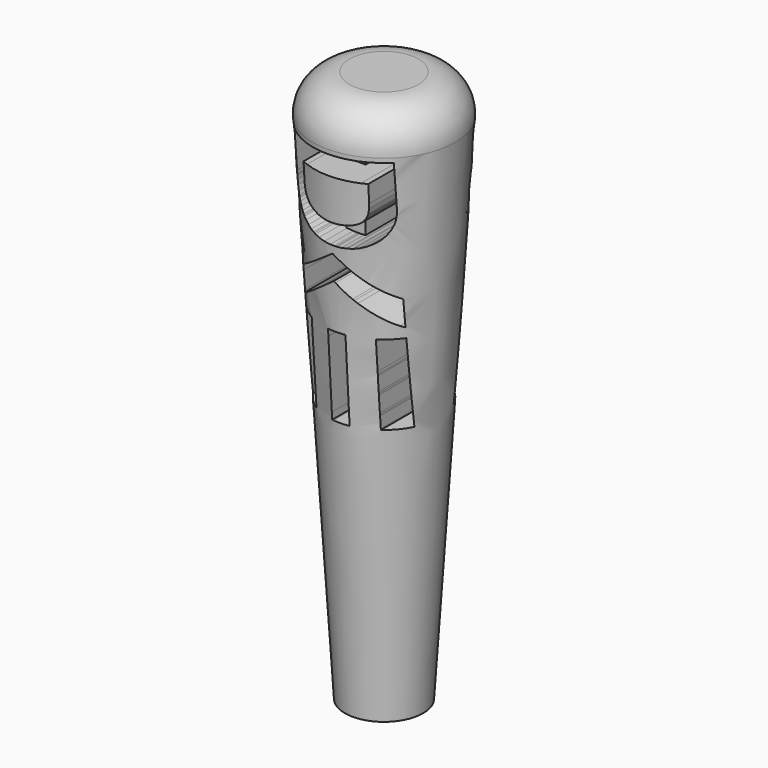
from build123d import *

# Parameters (mm, degrees)
F2_R           = 12.7
F4_DEPTH       = 24.5824695886
F4_DEPTH_BACK  = 24.5824695886
F6_DEPTH       = 12.7
F6_DEPTH_BACK  = 12.7
F8_D           = 6.7564
F8_DEPTH       = 25.4
F8_TIP         = 2.0298273432
F9_W           = 83.6944122157
F9_H           = 12.7
F10_DEPTH      = 24.5824695886
F10_DEPTH_BACK = 24.5824695886


with BuildPart() as f1:
    # F0 (on Front) → F1 (revolve)
    with BuildSketch(Plane.XZ):
        Polygon((0, 203.2), (0, 0), (12.7, 0), (25.4, 203.2), align=None)
    revolve(axis=Axis((0, 0, 101.6), (0, 0, -1)))

    # F2
    f2_edges = [f1.edges().sort_by_distance(p)[0] for p in [
        (-25.4, 0, 203.2),
    ]]
    fillet(f2_edges, radius=F2_R)

    # F3 (on Front) → F4 (cut, two sides)
    with BuildSketch(Plane.XZ) as f4_sk:
        Polygon((17.2665499333, 186.9612298093), (17.266083829, 188.1952409085), (14.4722547342, 188.1957070128), (-13.4677452631, 188.196095433), (-16.2621181463, 188.196095433), (-16.2621181463, 186.9975082596), (-16.2624288825, 175.0106266331), (-16.2628949868, 173.8115733554), (-16.2709741277, 173.4174821809), (-16.2124003557, 172.2323343478), (-15.9897578747, 170.6661462602), (-15.5868884029, 169.1374795678), (-15.1662292841, 168.0265976843), (-14.9950913268, 167.6713485338), (-14.8598433996, 167.3944049034), (-14.3916416435, 166.5935600547), (-13.6743071462, 165.5880177401), (-12.8532644451, 164.6645097799), (-12.1776462814, 164.0285881647), (-11.9386901504, 163.8334458366), (-11.6457436062, 163.5923922363), (-10.7143895572, 162.9332430908), (-9.404015039, 162.1632388091), (-8.0275313962, 161.5154315345), (-6.96419215, 161.1010648236), (-6.6042819566, 160.9810429697), (-6.1102890967, 160.8187609939), (-4.5967707935, 160.4289424421), (-2.5480870851, 160.064759626), (-0.4744667974, 159.8721031875), (1.0869825633, 159.8249489705), (1.606688843, 159.8328727434), (1.887827412, 159.8282893845), (3.2866063765, 159.9083039538), (4.680413562, 160.0613415279), (4.9586001372, 160.0929589354), (5.0918282791, 160.1169633061), (6.4206916007, 160.358871431), (6.5525991138, 160.3876145287), (7.038901253, 160.4844865363), (8.4724049869, 160.9017275569), (10.3094773491, 161.6628758572), (12.0265278575, 162.6630579726), (13.220453988, 163.5599203043), (13.5859574329, 163.894194762), (13.9374777492, 164.2174380848), (14.8700747429, 165.3182987261), (15.8791128397, 166.9459348955), (16.6006422756, 168.7224137004), (16.9563575304, 170.1195613), (17.0233211796, 170.5920356786), (17.038547253, 170.6703411988), (17.1414009323, 171.4593780722), (17.1561609014, 171.5373728562), (17.1678911926, 171.6907211666), (17.2611120499, 173.2282438405), (17.2674044578, 173.3820582551), (17.2674044578, 174.6166131426), align=None)
        Polygon((11.4583467319, 176.322244096), (11.4583467319, 175.860723168), (11.4583467319, 175.3305295419), (11.3871104601, 173.7387057185), (11.105661155, 171.9946988456), (11.0006323223, 171.6549088205), (10.92861921, 171.4041447143), (10.619669752, 170.6775658153), (10.0625197612, 169.7874619956), (9.3422332701, 169.0284111647), (8.7028158727, 168.5626176141), (8.4706182538, 168.443838705), (8.0996769256, 168.2457443831), (6.9170926661, 167.7787855719), (5.2848731379, 167.3509795207), (3.6086067546, 167.1018467794), (2.3454641375, 166.9952642658), (1.923639758, 166.9733573643), (1.6914421391, 166.9763093582), (0.527346683, 166.9661327479), (-0.6346513039, 167.0032657227), (-0.8664605025, 167.0293675628), (-1.2917806642, 167.060518866), (-2.5633131585, 167.2269957804), (-4.2360837596, 167.59374217), (-5.8456195458, 168.1627001361), (-6.9958095575, 168.7367852492), (-7.3531561773, 168.9681283436), (-7.6036095474, 169.1299442151), (-8.2989594592, 169.7036409081), (-9.1013579888, 170.5933563074), (-9.7294335152, 171.6115611219), (-10.0759043684, 172.4448002185), (-10.1528892598, 172.7326972996), (-10.2187653323, 172.9610884001), (-10.3969725379, 174.1272813256), (-10.4424953899, 175.3086226404), (-10.4421069697, 175.5446267776), (-10.4416408654, 176.0327156499), (-10.4407863409, 180.9123614279), (-10.4407863409, 181.40006188), (-8.6158326901, 181.3995957757), (9.6333930812, 181.3983528309), (11.4583467319, 181.3967214659), (11.4583467319, 180.0129355226), align=None, mode=Mode.SUBTRACT)
        Polygon((16.1871300892, 145.9322445994), (16.0924332349, 146.006432865), (15.6191043317, 146.3418725834), (10.8834847783, 149.6954929266), (10.4098451389, 150.0306219088), (9.5756738337, 150.6172141537), (1.2707053363, 156.5299023993), (0.4345919299, 157.1127658099), (0.4097330346, 157.1342842911), (0.3106858737, 157.1700966372), (0.1821964586, 157.1554143521), (0.0578242981, 157.0972290003), (-0.0273174183, 157.0419956424), (-0.0552059914, 157.0221862102), (-1.4025581164, 156.0641865328), (-14.912590868, 146.5282366141), (-16.2621181463, 145.5722567219), (-16.2621181463, 143.5029867409), (-16.2607975175, 137.2939338529), (-16.2595545727, 136.5407870096), (-15.2644219205, 137.2720269514), (-5.3116194013, 144.5747158642), (-4.3170305374, 145.3059558061), (-3.9325721849, 145.5824333322), (-2.0267494404, 146.9875047046), (-0.1098955611, 148.3771169515), (0.2795345705, 148.6452046005), (0.7814512033, 148.2650188706), (5.8559285732, 144.5375828894), (6.3611856201, 144.1625243066), (7.2703220314, 143.4970050692), (16.3544615281, 136.834121974), (17.2640640437, 136.1694572611), (17.2640640437, 136.9171662211), (17.2614227861, 144.39557645), (17.2556741666, 145.14328541), (17.1709208704, 145.2292816509), (16.6892020901, 145.5921438382), align=None)
        Polygon((11.8317739497, 132.7678281764), (11.3373926695, 132.7686050168), (11.3378587738, 131.8550406148), (11.3378587738, 122.7232807967), (11.3387132983, 121.8097163947), (11.323487225, 121.3164226912), (11.3260507986, 116.3749404111), (11.3395678229, 115.8808698671), (11.3256623783, 115.3238752445), (11.323487225, 109.7453837724), (11.3387132983, 109.1876123093), (11.3378587738, 108.7859857822), (11.3370042493, 104.7673899899), (11.3353728843, 104.3657634628), (11.8297541644, 104.3657634628), (16.7713918126, 104.3657634628), (17.2653069885, 104.3657634628), (17.266083829, 106.7320195586), (17.2669383535, 130.4000183996), (17.2674044578, 132.7662744954), (16.7734892819, 132.7678281764), align=None)
        Polygon((3.2895583703, 130.4007952401), (3.2895583703, 132.7678281764), (2.7947886699, 132.7670513359), (-2.1549281192, 132.7662744954), (-2.6500085558, 132.7647208144), (-2.6493093994, 130.3984647187), (-2.6555241232, 106.7359037609), (-2.6521837092, 104.3696476652), (-2.1569479045, 104.3673171437), (2.7944002497, 104.3665403033), (3.2895583703, 104.3657634628), (3.2895583703, 106.7320195586), align=None)
        Polygon((-10.3084904075, 130.4007952401), (-10.3084904075, 132.7678281764), (-10.8033377919, 132.7670513359), (-15.7516562682, 132.7670513359), (-16.2468920729, 132.7654976549), (-16.2460375484, 130.3992415591), (-16.2528737446, 106.7359037609), (-16.2489895422, 104.3696476652), (-15.7538314216, 104.3673171437), (-10.8033377919, 104.3665403033), (-10.3084904075, 104.3657634628), (-10.3084904075, 106.7320195586), align=None)
    extrude(amount=-F4_DEPTH, mode=Mode.SUBTRACT)
    extrude(f4_sk.sketch, amount=F4_DEPTH_BACK, mode=Mode.SUBTRACT)

    # F8
    with Locations(Plane(origin=(0, 0, 0), x_dir=(1, 0, 0), z_dir=(0, 0, -1))):
        with Locations((0, 0)):
            Hole(F8_D / 2, depth=F8_DEPTH)
            with Locations((0, 0, -(F8_DEPTH + F8_TIP / 2))):  # 118° drill point
                Cone(0, F8_D / 2, F8_TIP, mode=Mode.SUBTRACT)

    # F9 (on Front) → F10 (cut, two sides)
    with BuildSketch(Plane.XZ) as f10_sk:
        with Locations((2.2610630794, 6.35)):
            Rectangle(F9_W, F9_H)
    extrude(amount=-F10_DEPTH, mode=Mode.SUBTRACT)
    extrude(f10_sk.sketch, amount=F10_DEPTH_BACK, mode=Mode.SUBTRACT)


with BuildPart() as f6:
    # F5 (on Front) → F6 (new body, two sides)
    with BuildSketch(Plane.XZ) as f6_sk:
        Polygon((3.8383467319, 191.1288499832), (0, 191.0519651545), (-2.8207863409, 191.0519651545), (-2.8207863409, 159.0839643834), (3.8383467319, 159.0839643834), align=None)
    extrude(amount=F6_DEPTH)
    extrude(f6_sk.sketch, amount=-F6_DEPTH_BACK)


solid = Compound([f1.part, f6.part])
